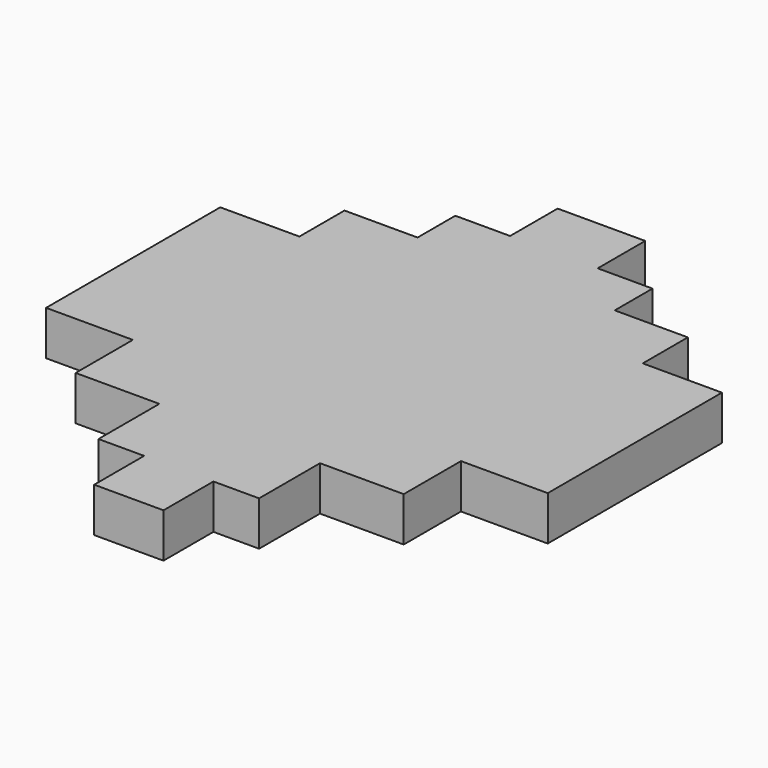
from build123d import *

# Parameters (mm, degrees)
F2_DEPTH = 3.5


with BuildPart() as f2:
    # F1 (on Top) → F2 (new body)
    with BuildSketch(Plane.XY):
        Polygon((-19.782575, 7.505342), (-19.782575, 0), (-19.782575, -9.664455), (-12.93867, -9.664455), (-12.93867, -15.307676), (-6.334901, -15.307676), (-6.334901, -21.311102), (-2.732845, -21.311102), (-2.732845, -26.23391), (0, -26.23391), (2.732845, -26.23391), (2.732845, -21.311102), (6.334901, -21.311102), (6.334901, -15.307676), (12.93867, -15.307676), (12.93867, -9.664455), (19.782575, -9.664455), (19.782575, 0), (19.782575, 7.505342), (13.539013, 7.505342), (13.539013, 11.947878), (7.775723, 11.947878), (7.775723, 15.670002), (3.453257, 15.670002), (3.453257, 20.352675), (0, 20.352675), (-3.453257, 20.352675), (-3.453257, 15.670002), (-7.775723, 15.670002), (-7.775723, 11.947878), (-13.539013, 11.947878), (-13.539013, 7.505342), align=None)
    extrude(amount=F2_DEPTH)


solid = f2.part
